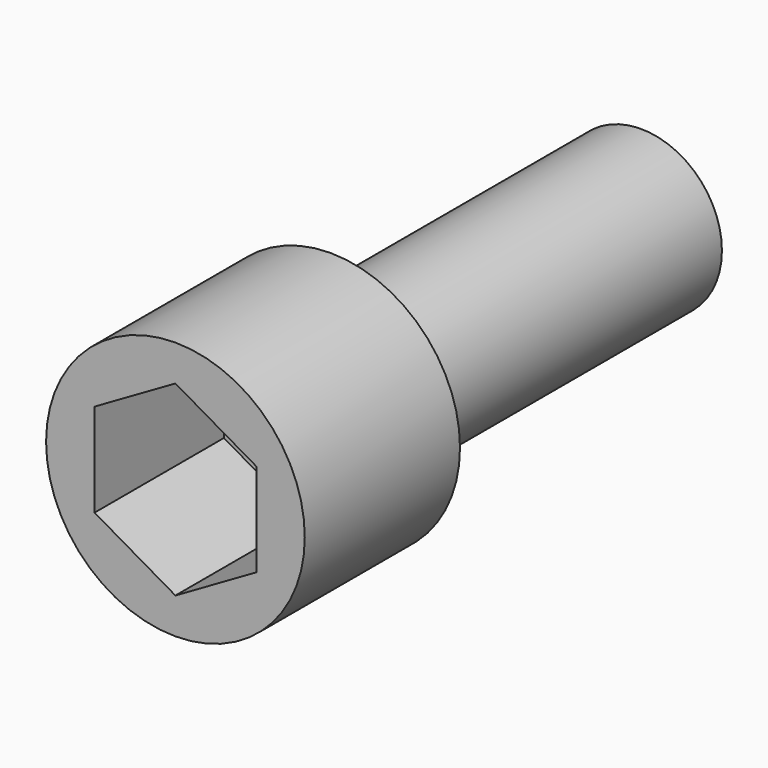
from build123d import *

# Parameters (mm, degrees)
F0_R     = 1.984375
F1_DEPTH = 9.525
F3_R     = 3.175
F4_DEPTH = 4.7625
F6_DEPTH = 3.96875


with BuildPart() as f1:
    # F0 (on Front) → F1 (new body)
    with BuildSketch(Plane.XZ):
        Circle(F0_R)
    extrude(amount=F1_DEPTH)

    # F3 (on face) → F4 (join)
    with BuildSketch(Plane.XZ.offset(9.525)):
        Circle(F3_R)
    extrude(amount=F4_DEPTH)

    # F5 (on face) → F6 (cut)
    with BuildSketch(Plane.XZ.offset(14.2875)):
        Polygon((1.984375, 1.145679), (0, 2.291359), (-1.984375, 1.145679), (-1.984375, -1.145679), (0, -2.291359), (1.984375, -1.145679), align=None)
    extrude(amount=-F6_DEPTH, mode=Mode.SUBTRACT)


solid = f1.part
